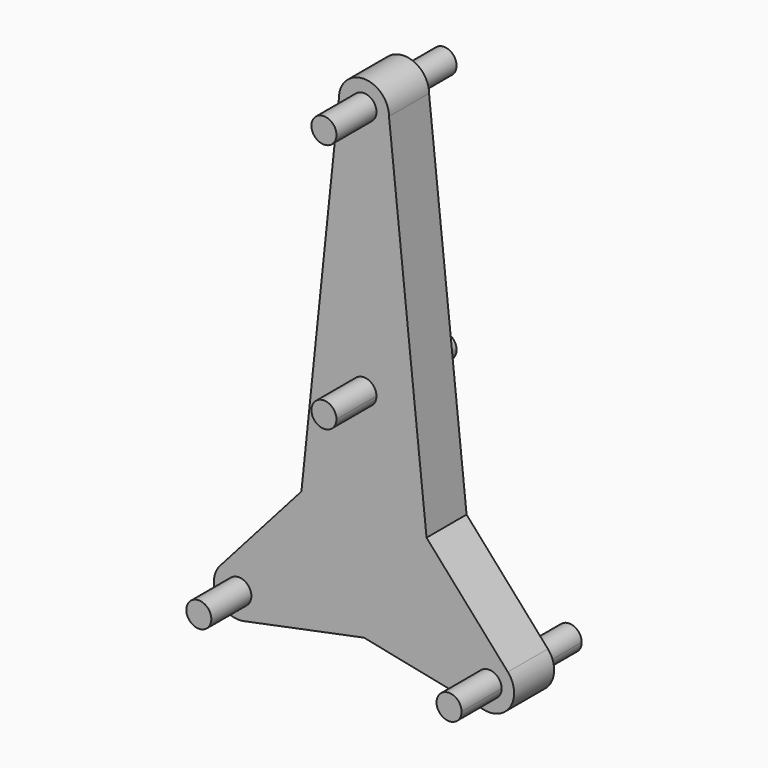
from build123d import *

# Parameters (mm, degrees)
F0_R     = 5
F1_DEPTH = 10
F2_DEPTH = 30


with BuildPart() as f1:
    # F0 (on Front) → F1 (new body, symmetric)
    with BuildSketch(Plane.XZ):
        with BuildLine():
            Line((-25, -43.3012701892), (-5, -8.6602540378))
            ThreePointArc((-5, -8.6602540378), (-5, 8.6602540378), (10, 0))
            ThreePointArc((10, 0), (8.6602540378, -5), (5, -8.6602540378))
            Line((5, -8.6602540378), (25, -43.3012701892))
            Line((25, -43.3012701892), (10, 100))
            ThreePointArc((10, 100), (0, 90), (-10, 100))
            Line((-10, 100), (-25, -43.3012701892))
        make_face()
        with BuildLine():
            Line((47.5, -82.2724133595), (45, -77.9422863406))
            ThreePointArc((45, -77.9422863406), (41.3397459622, -81.6025403784), (40, -86.6025403784))
            Line((40, -86.6025403784), (45, -86.6025403784))
            ThreePointArc((45, -86.6025403784), (45.6698729811, -84.1025403784), (47.5, -82.2724133595))
        make_face()
        with BuildLine():
            Line((-5, -8.6602540378), (-2.5, -4.3301270189))
            ThreePointArc((-2.5, -4.3301270189), (-2.5, 4.3301270189), (5, 0))
            ThreePointArc((5, 0), (4.3301270189, -2.5), (2.5, -4.3301270189))
            Line((2.5, -4.3301270189), (5, -8.6602540378))
            ThreePointArc((5, -8.6602540378), (8.6602540378, -5), (10, 0))
            ThreePointArc((10, 0), (-5, 8.6602540378), (-5, -8.6602540378))
        make_face()
        with BuildLine():
            Line((-45, -77.9422863406), (-25, -43.3012701892))
            Line((-25, -43.3012701892), (-57.4852813742, -79.9715100853))
            ThreePointArc((-57.4852813742, -79.9715100853), (-51.6042422288, -76.7320587858), (-45, -77.9422863406))
        make_face()
        with BuildLine():
            ThreePointArc((57.4852813742, -79.9715100853), (51.6042422288, -76.7320587858), (45, -77.9422863406))
            Line((45, -77.9422863406), (47.5, -82.2724133595))
            ThreePointArc((47.5, -82.2724133595), (52.5, -82.2724133595), (55, -86.6025403784))
            ThreePointArc((55, -86.6025403784), (50, -91.6025403784), (45, -86.6025403784))
            Line((45, -86.6025403784), (40, -86.6025403784))
            ThreePointArc((40, -86.6025403784), (42.2540333076, -92.9270956988), (48, -96.4004993496))
            ThreePointArc((48, -96.4004993496), (56.3245553203, -94.3485070709), (60, -86.6025403784))
            ThreePointArc((60, -86.6025403784), (59.3502089213, -83.0566141061), (57.4852813742, -79.9715100853))
        make_face()
        with BuildLine():
            ThreePointArc((-40, -86.6025403784), (-41.3397459622, -81.6025403784), (-45, -77.9422863406))
            Line((-45, -77.9422863406), (-47.5, -82.2724133595))
            ThreePointArc((-47.5, -82.2724133595), (-45.6698729811, -84.1025403784), (-45, -86.6025403784))
            Line((-45, -86.6025403784), (-40, -86.6025403784))
        make_face()
        with BuildLine():
            Line((0, -86.6025403784), (-40, -86.6025403784))
            ThreePointArc((-40, -86.6025403784), (-42.2540333076, -92.9270956988), (-48, -96.4004993496))
            Line((-48, -96.4004993496), (0, -86.6025403784))
        make_face()
        with BuildLine():
            ThreePointArc((48, -96.4004993496), (42.2540333076, -92.9270956988), (40, -86.6025403784))
            Line((40, -86.6025403784), (0, -86.6025403784))
            Line((0, -86.6025403784), (48, -96.4004993496))
        make_face()
        with BuildLine():
            Line((57.4852813742, -79.9715100853), (25, -43.3012701892))
            Line((25, -43.3012701892), (45, -77.9422863406))
            ThreePointArc((45, -77.9422863406), (51.6042422288, -76.7320587858), (57.4852813742, -79.9715100853))
        make_face()
        with BuildLine():
            ThreePointArc((10, 100), (0, 110), (-10, 100))
            ThreePointArc((-10, 100), (0, 90), (10, 100))
        make_face()
        with Locations((0, 100)):
            Circle(F0_R, mode=Mode.SUBTRACT)
        with BuildLine():
            Line((-47.5, -82.2724133595), (-45, -77.9422863406))
            ThreePointArc((-45, -77.9422863406), (-51.6042422288, -76.7320587858), (-57.4852813742, -79.9715100853))
            ThreePointArc((-57.4852813742, -79.9715100853), (-58.6602540378, -91.6025403784), (-48, -96.4004993496))
            ThreePointArc((-48, -96.4004993496), (-42.2540333076, -92.9270956988), (-40, -86.6025403784))
            Line((-40, -86.6025403784), (-45, -86.6025403784))
            ThreePointArc((-45, -86.6025403784), (-54.3301270189, -89.1025403784), (-47.5, -82.2724133595))
        make_face()
        with BuildLine():
            ThreePointArc((5, -8.6602540378), (0, -10), (-5, -8.6602540378))
            Line((-5, -8.6602540378), (-25, -43.3012701892))
            Line((-25, -43.3012701892), (-45, -77.9422863406))
            ThreePointArc((-45, -77.9422863406), (-41.3397459622, -81.6025403784), (-40, -86.6025403784))
            Line((-40, -86.6025403784), (0, -86.6025403784))
            Line((0, -86.6025403784), (40, -86.6025403784))
            ThreePointArc((40, -86.6025403784), (41.3397459622, -81.6025403784), (45, -77.9422863406))
            Line((45, -77.9422863406), (25, -43.3012701892))
            Line((25, -43.3012701892), (5, -8.6602540378))
        make_face()
        with BuildLine():
            ThreePointArc((2.5, -4.3301270189), (0, -5), (-2.5, -4.3301270189))
            Line((-2.5, -4.3301270189), (-5, -8.6602540378))
            ThreePointArc((-5, -8.6602540378), (0, -10), (5, -8.6602540378))
            Line((5, -8.6602540378), (2.5, -4.3301270189))
        make_face()
    extrude(amount=F1_DEPTH, both=True)

    # F0 (on Front) → F2 (join, symmetric)
    with BuildSketch(Plane.XZ):
        with Locations((0, 100)):
            Circle(F0_R)
        with BuildLine():
            Line((-2.5, -4.3301270189), (0, 0))
            Line((0, 0), (2.5, -4.3301270189))
            ThreePointArc((2.5, -4.3301270189), (4.3301270189, -2.5), (5, 0))
            ThreePointArc((5, 0), (-2.5, 4.3301270189), (-2.5, -4.3301270189))
        make_face()
        with BuildLine():
            Line((2.5, -4.3301270189), (0, 0))
            Line((0, 0), (-2.5, -4.3301270189))
            ThreePointArc((-2.5, -4.3301270189), (0, -5), (2.5, -4.3301270189))
        make_face()
        with BuildLine():
            ThreePointArc((-45, -86.6025403784), (-45.6698729811, -84.1025403784), (-47.5, -82.2724133595))
            Line((-47.5, -82.2724133595), (-50, -86.6025403784))
            Line((-50, -86.6025403784), (-45, -86.6025403784))
        make_face()
        with BuildLine():
            Line((-50, -86.6025403784), (-47.5, -82.2724133595))
            ThreePointArc((-47.5, -82.2724133595), (-54.3301270189, -89.1025403784), (-45, -86.6025403784))
            Line((-45, -86.6025403784), (-50, -86.6025403784))
        make_face()
        with BuildLine():
            Line((50, -86.6025403784), (47.5, -82.2724133595))
            ThreePointArc((47.5, -82.2724133595), (45.6698729811, -84.1025403784), (45, -86.6025403784))
            Line((45, -86.6025403784), (50, -86.6025403784))
        make_face()
        with BuildLine():
            ThreePointArc((55, -86.6025403784), (52.5, -82.2724133595), (47.5, -82.2724133595))
            Line((47.5, -82.2724133595), (50, -86.6025403784))
            Line((50, -86.6025403784), (45, -86.6025403784))
            ThreePointArc((45, -86.6025403784), (50, -91.6025403784), (55, -86.6025403784))
        make_face()
    extrude(amount=F2_DEPTH, both=True)


solid = f1.part
